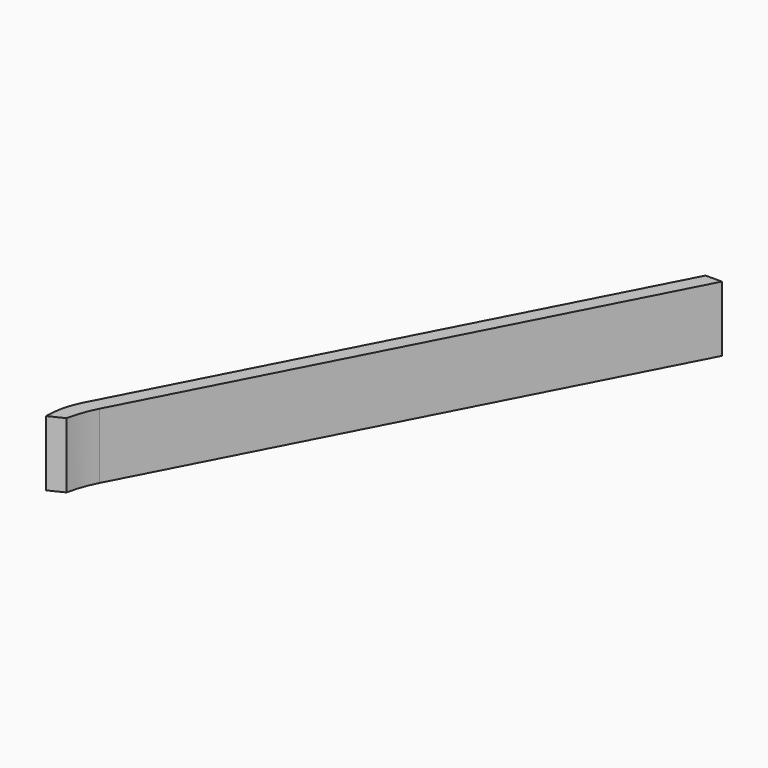
from build123d import *

# Parameters (mm, degrees)
F1_DEPTH = 6
F2_DEPTH = 8


with BuildPart() as f1:
    # F0 (on Top) → F1 (new body)
    with BuildSketch(Plane.XY):
        Polygon((31.226261, 74.712449), (1.234041, 17.045589), (3.234041, 17.045589), (33.226261, 74.712449), align=None)
        with BuildLine():
            Line((3.234041, 17.045589), (1.234041, 17.045589))
            ThreePointArc((1.234041, 17.045589), (0.445743, 14.923822), (0.201795, 12.673533))
            Line((0.201795, 12.673533), (2, 13.549008))
            ThreePointArc((2, 13.549008), (2.494165, 15.340658), (3.234041, 17.045589))
        make_face()
    extrude(amount=F1_DEPTH)

    # F0 (on Top) → F2 (join)
    with BuildSketch(Plane.XY):
        Polygon((31.226261, 74.712449), (1.234041, 17.045589), (3.234041, 17.045589), (33.226261, 74.712449), align=None)
        with BuildLine():
            Line((3.234041, 17.045589), (1.234041, 17.045589))
            ThreePointArc((1.234041, 17.045589), (0.445743, 14.923822), (0.201795, 12.673533))
            Line((0.201795, 12.673533), (2, 13.549008))
            ThreePointArc((2, 13.549008), (2.494165, 15.340658), (3.234041, 17.045589))
        make_face()
    extrude(amount=F2_DEPTH)


solid = f1.part
